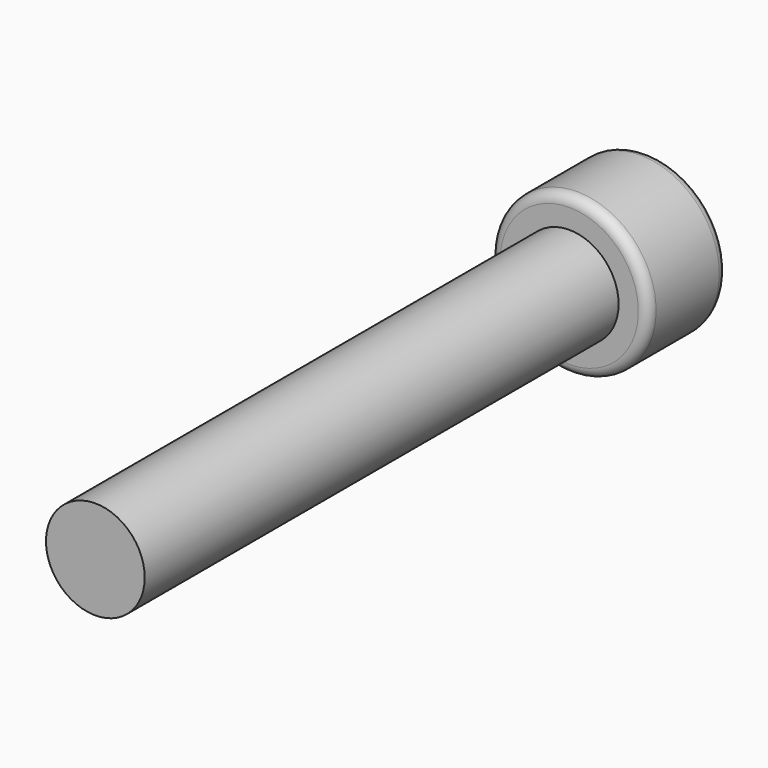
from build123d import *

# Parameters (mm, degrees)
F0_R     = 2.5
F1_DEPTH = 30
F2_R     = 4
F3_DEPTH = 5
F4_R     = 0.5
F6_DEPTH = 3


with BuildPart() as f1:
    # F0 (on Front) → F1 (new body)
    with BuildSketch(Plane.XZ):
        Circle(F0_R)
    extrude(amount=-F1_DEPTH)

    # F2 (on face) → F3 (join)
    with BuildSketch(Plane(origin=(0, 30, 0), x_dir=(-1, 0, 0), z_dir=(0, 1, 0))):
        Circle(F2_R)
    extrude(amount=F3_DEPTH)

    # F4
    f4_edges = [f1.edges().sort_by_distance(p)[0] for p in [
        (4, 30, 0),
        (4, 35, 0),
    ]]
    fillet(f4_edges, radius=F4_R)

    # F5 (on face) → F6 (cut)
    with BuildSketch(Plane(origin=(0, 35, 0), x_dir=(-1, 0, 0), z_dir=(0, 1, 0))):
        Polygon((1.154701, 2), (-1.154701, 2), (-2.309401, 0), (-1.154701, -2), (1.154701, -2), (2.309401, 0), align=None)
    extrude(amount=-F6_DEPTH, mode=Mode.SUBTRACT)


solid = f1.part
